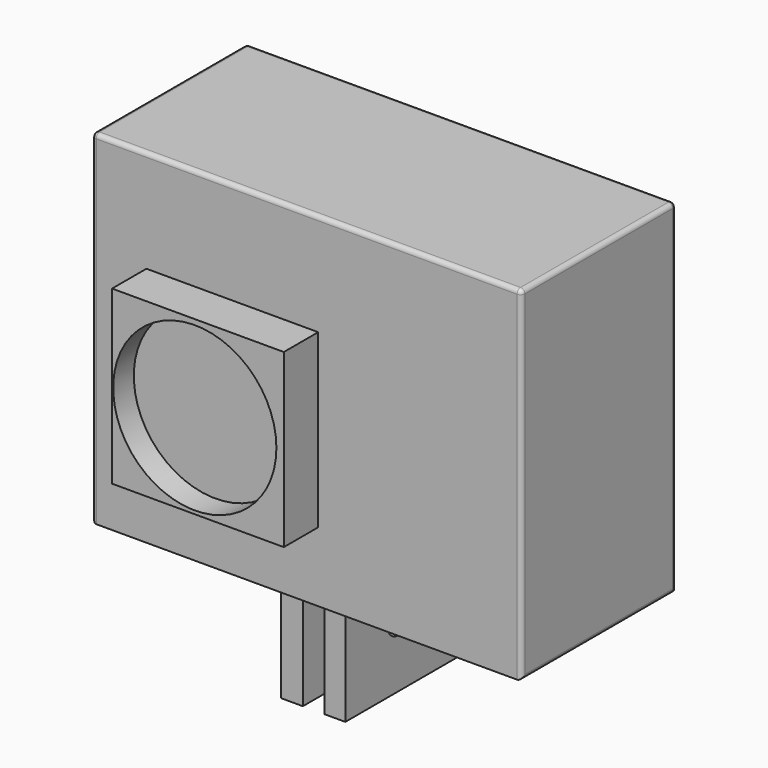
from build123d import *

# Parameters (mm, degrees)
F0_W      = 28.575
F0_H      = 50.8
F1_DEPTH  = 63.5
F2_W      = 9.525
F2_H      = 15.875
F3_DEPTH  = 25.4
F4_R      = 2.1209
F5_DEPTH  = 25.4
F6_W      = 25.4
F6_H      = 25.4
F6_R      = 12.065
F7_DEPTH  = 6.35
F7_FACE_R = 12.065
F8_DEPTH  = 2.54
F9_W      = 3.175
F9_H      = 13.97
F10_DEPTH = 25.4
F11_R     = 0.635


with BuildPart() as f1:
    # F0 (on Right) → F1 (new body)
    with BuildSketch(Plane.YZ):
        with Locations((-5.182586, -1.126902)):
            Rectangle(F0_W, F0_H)
    extrude(amount=F1_DEPTH)

    # F6 (on face) → F7 (join)
    with BuildSketch(Plane.XZ.offset(19.470086)):
        with Locations((20.749297, -3.559577)):
            Rectangle(F6_W, F6_H)
        with Locations((20.284224, -3.702676)):
            Circle(F6_R, mode=Mode.SUBTRACT)
    extrude(amount=F7_DEPTH)

    # F7_face (on face) → F8 (join)
    with BuildSketch(Plane(origin=(20.284224, -19.470086, -3.702676), x_dir=(1, 0, 0), z_dir=(0, -1, 0))):
        Circle(F7_FACE_R)
    extrude(amount=F8_DEPTH)

    # F11
    f11_edges = [f1.edges().sort_by_distance(p)[0] for p in [
        (31.75, 9.104914, 24.273098),
        (0, -5.182586, 24.273098),
        (31.75, -19.470086, 24.273098),
        (63.5, -5.182586, 24.273098),
        (0, -19.470086, -1.126902),
        (0, -5.182586, -26.526902),
        (0, 9.104914, -1.126902),
        (63.5, -19.470086, -1.126902),
        (63.5, 9.104914, -1.126902),
        (63.5, -5.182586, -26.526902),
    ]]
    fillet(f11_edges, radius=F11_R)


with BuildPart() as f3:
    # F2 (on face) → F3 (new body)
    with BuildSketch(Plane(origin=(0, 9.104914, 0), x_dir=(-1, 0, 0), z_dir=(0, 1, 0))):
        with Locations((-30.1625, -34.464402)):
            Rectangle(F2_W, F2_H)
    extrude(amount=-F3_DEPTH)

    # F4 (on face) → F5 (cut)
    with BuildSketch(Plane.YZ.offset(34.925)):
        with Locations((-6.439436, -33.002112)):
            Circle(F4_R)
    extrude(amount=-F5_DEPTH, mode=Mode.SUBTRACT)

    # F9 (on face) → F10 (cut)
    with BuildSketch(Plane.XZ.offset(16.295086)):
        with Locations((30.228879, -35.416902)):
            Rectangle(F9_W, F9_H)
    extrude(amount=-F10_DEPTH, mode=Mode.SUBTRACT)


solid = Compound([f1.part, f3.part])
